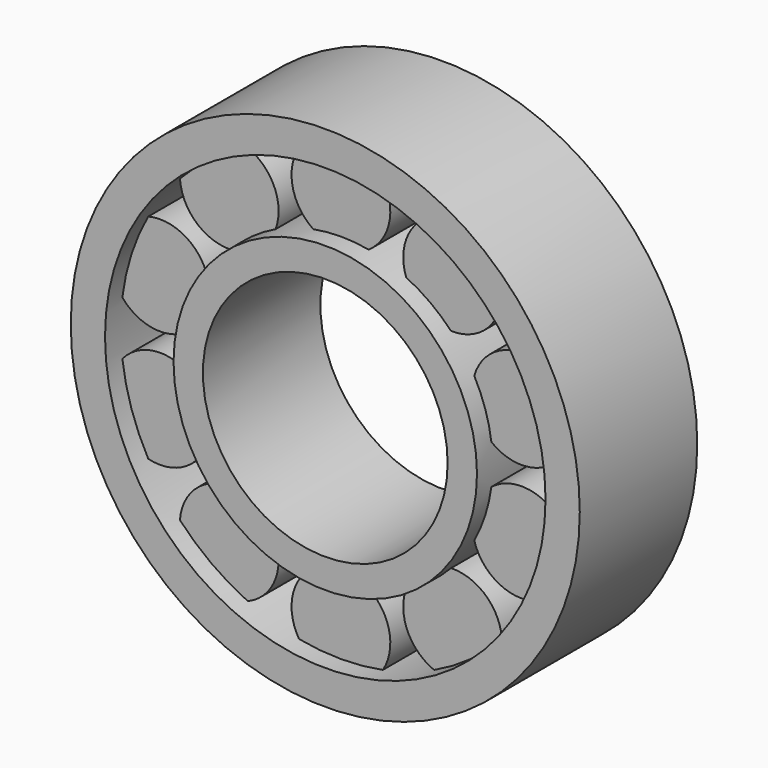
from build123d import *

# Parameters (mm, degrees)
F0_R     = 26
F0_R_2   = 22.5
F1_DEPTH = 15
F3_R     = 5.044876
F4_DEPTH = 11
F0_R_3   = 15.5
F0_R_4   = 12.5
F5_DEPTH = 15


with BuildPart() as f1:
    # F0 (on Front) → F1 (new body)
    with BuildSketch(Plane.XZ):
        Circle(F0_R)
        Circle(F0_R_2, mode=Mode.SUBTRACT)
    extrude(amount=-F1_DEPTH)

    # F3 (on offset) → F4 (join)
    with BuildSketch(Plane.XZ.offset(-2)):
        with Locations((0, -19.415323)):
            Circle(F3_R)
        with Locations((11.41204, -15.707326)):
            Circle(F3_R)
        with Locations((18.465069, -5.999665)):
            Circle(F3_R)
        with Locations((18.465069, 5.999665)):
            Circle(F3_R)
        with Locations((11.41204, 15.707326)):
            Circle(F3_R)
        with Locations((0, 19.415323)):
            Circle(F3_R)
        with Locations((-11.41204, 15.707326)):
            Circle(F3_R)
        with Locations((-18.465069, 5.999665)):
            Circle(F3_R)
        with Locations((-18.465069, -5.999665)):
            Circle(F3_R)
        with Locations((-11.41204, -15.707326)):
            Circle(F3_R)
    extrude(amount=-F4_DEPTH)

    # F0 (on Front) → F5 (join)
    with BuildSketch(Plane.XZ):
        Circle(F0_R_3)
        Circle(F0_R_4, mode=Mode.SUBTRACT)
    extrude(amount=-F5_DEPTH)


solid = f1.part
